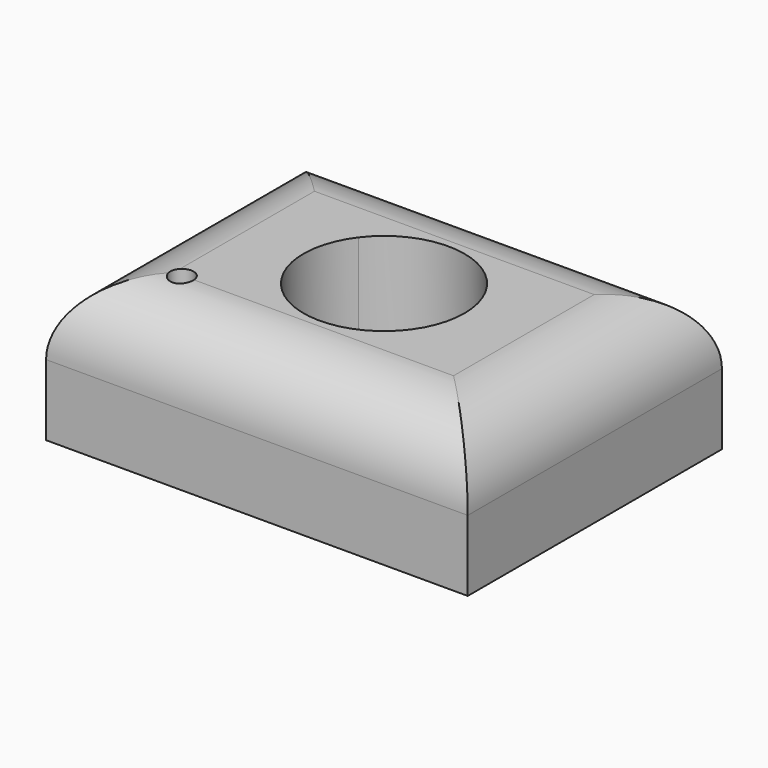
from build123d import *

# Parameters (mm, degrees)
F0_W           = 75.4651799798
F0_H           = 56.8607151508
F1_DEPTH       = 25.4
F2_R           = 12.7
F4_D           = 4.2
F4_CSINK_D     = 11.2
F4_CSINK_ANGLE = 90


with BuildPart() as f1:
    # F0 (on Top) → F1 (new body)
    with BuildSketch(Plane.XY):
        Rectangle(F0_W, F0_H)
        with BuildLine():
            ThreePointArc((14.4115838808, 0), (-4.5724943597, -13.6669691331), (-11.5100700927, 8.6724873257))
            ThreePointArc((-11.5100700927, 8.6724873257), (4.5724943597, 13.6669691331), (14.4115838808, 0))
        make_face(mode=Mode.SUBTRACT)
    extrude(amount=F1_DEPTH)

    # F2
    f2_edges = [f1.edges().sort_by_distance(p)[0] for p in [
        (0, -28.430358, 25.4),
        (-37.73259, 0, 25.4),
        (0, 28.430358, 25.4),
        (37.73259, 0, 25.4),
    ]]
    fillet(f2_edges, radius=F2_R)

    # F4 (through all)
    with Locations(Plane(origin=(0, 0, 0), x_dir=(1, 0, 0), z_dir=(0, 0, -1))):
        with Locations((-23.5218573362, 15.828538686)):
            CounterSinkHole(F4_D / 2, F4_CSINK_D / 2, counter_sink_angle=F4_CSINK_ANGLE)


solid = f1.part
